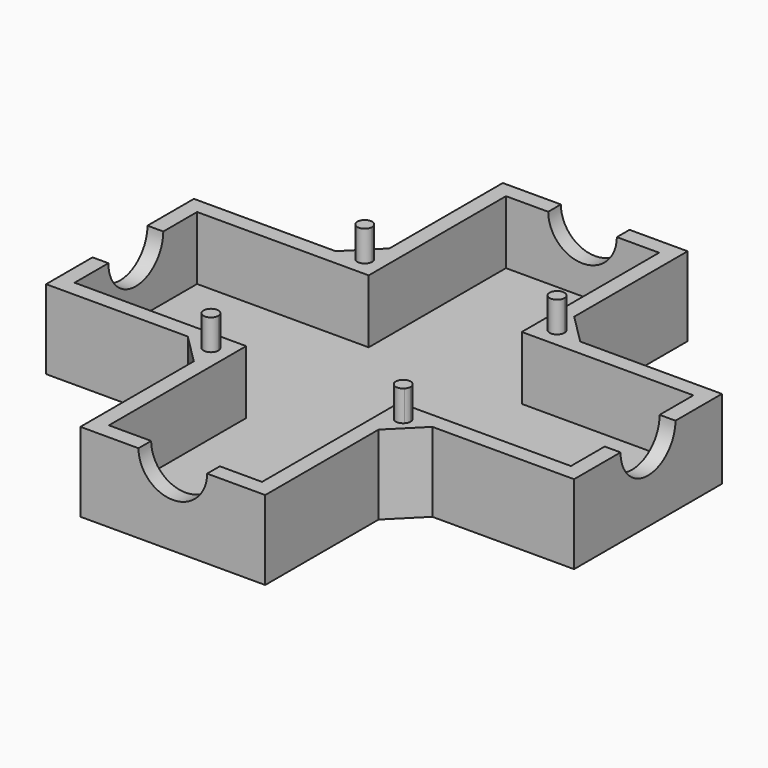
from build123d import *

# Parameters (mm, degrees)
F1_DEPTH  = 7.5
F2_T      = -1.5
F4_DEPTH  = 7.5
F6_DEPTH  = 2.9
F7_R      = 3.25
F8_DEPTH  = 50.001
F9_R      = 3.25
F10_DEPTH = 50.001


with BuildPart() as f1:
    # F0 (on Top) → F1 (new body)
    with BuildSketch(Plane.XY):
        Polygon((25, -8.75), (25, 8.75), (8.75, 8.75), (8.75, 25), (-8.75, 25), (-8.75, 8.75), (-25, 8.75), (-25, -8.75), (-8.75, -8.75), (-8.75, -25), (8.75, -25), (8.75, -8.75), align=None)
    extrude(amount=F1_DEPTH)

    # F2
    f2_openings = [f1.faces().sort_by_distance(p)[0] for p in [
        (0, 0, 7.5),
    ]]
    offset(amount=F2_T, openings=f2_openings, kind=Kind.INTERSECTION)

    # F3 (on face) → F4 (join, through all)
    with BuildSketch(Plane.XY.offset(7.5)):
        Polygon((-8.75, 11.5784271247), (-11.5784271247, 8.75), (-8.75, 8.75), align=None)
        Polygon((8.75, 11.5784271247), (8.75, 8.75), (11.5784271247, 8.75), align=None)
        Polygon((-8.75, -11.5784271247), (-8.75, -8.75), (-11.5784271247, -8.75), align=None)
        Polygon((11.5784271247, -8.75), (8.75, -8.75), (8.75, -11.5784271247), align=None)
    extrude(amount=-F4_DEPTH)

    # F5 (on face) → F6 (join)
    with BuildSketch(Plane.XY.offset(7.5)):
        with BuildLine():
            ThreePointArc((-9.5985281374, 9.5985281374), (-9.3714317932, 8.4568377178), (-8.4035533906, 9.1035533906))
            ThreePointArc((-8.4035533906, 9.1035533906), (-8.8356749879, 9.7502690634), (-9.5985281374, 9.5985281374))
        make_face()
        with BuildLine():
            ThreePointArc((9.5985281374, 9.5985281374), (8.4568377178, 8.8356749879), (9.8035533906, 9.1035533906))
            ThreePointArc((9.8035533906, 9.1035533906), (9.7502690634, 9.3714317932), (9.5985281374, 9.5985281374))
        make_face()
        with BuildLine():
            ThreePointArc((9.5985281374, -9.5985281374), (9.7502690634, -9.3714317932), (9.8035533906, -9.1035533906))
            ThreePointArc((9.8035533906, -9.1035533906), (8.4568377178, -8.8356749879), (9.5985281374, -9.5985281374))
        make_face()
        with BuildLine():
            ThreePointArc((-9.5985281374, -9.5985281374), (-8.8356749879, -9.7502690634), (-8.4035533906, -9.1035533906))
            ThreePointArc((-8.4035533906, -9.1035533906), (-9.3714317932, -8.4568377178), (-9.5985281374, -9.5985281374))
        make_face()
    extrude(amount=F6_DEPTH)

    # F7 (on face) → F8 (cut, through all)
    with BuildSketch(Plane.XZ.offset(25)):
        with Locations((0, 7.5)):
            Circle(F7_R)
    extrude(amount=-F8_DEPTH, mode=Mode.SUBTRACT)

    # F9 (on face) → F10 (cut, through all)
    with BuildSketch(Plane(origin=(-25, 0, 0), x_dir=(0, -1, 0), z_dir=(-1, 0, 0))):
        with Locations((0, 7.5)):
            Circle(F9_R)
    extrude(amount=-F10_DEPTH, mode=Mode.SUBTRACT)


solid = f1.part
